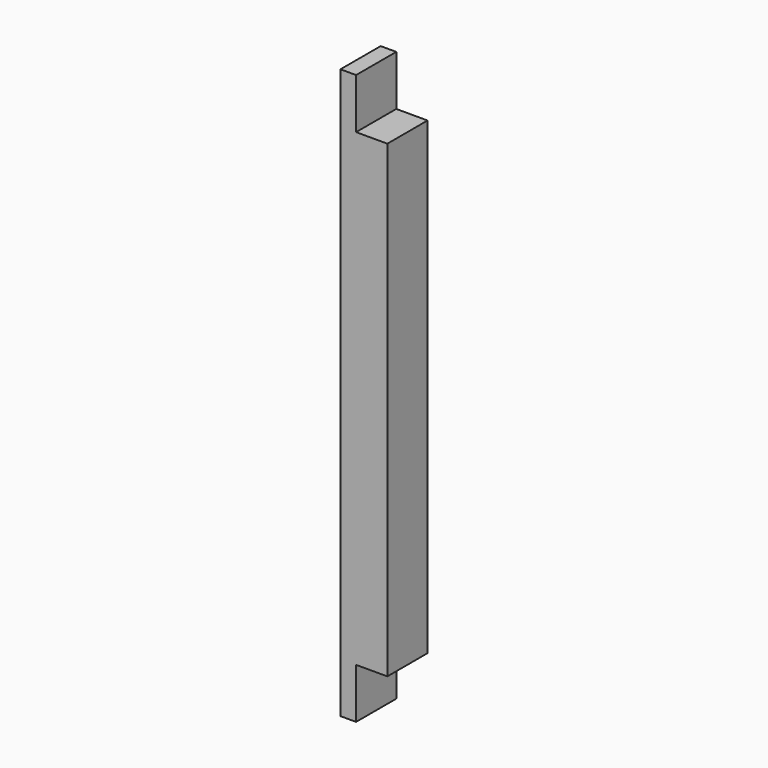
from build123d import *

# Parameters (mm, degrees)
F0_W     = 35.56
F0_H     = 114.3
F1_DEPTH = 1295.4
F2_W     = 114.3
F2_H     = 1066.8
F3_DEPTH = 71.12


with BuildPart() as f1:
    # F0 (on Top) → F1 (new body)
    with BuildSketch(Plane.XY):
        Rectangle(F0_W, F0_H)
    extrude(amount=F1_DEPTH)

    # F2 (on face) → F3 (join)
    with BuildSketch(Plane.YZ.offset(17.78)):
        with Locations((0, 647.7)):
            Rectangle(F2_W, F2_H)
    extrude(amount=F3_DEPTH)


solid = f1.part
